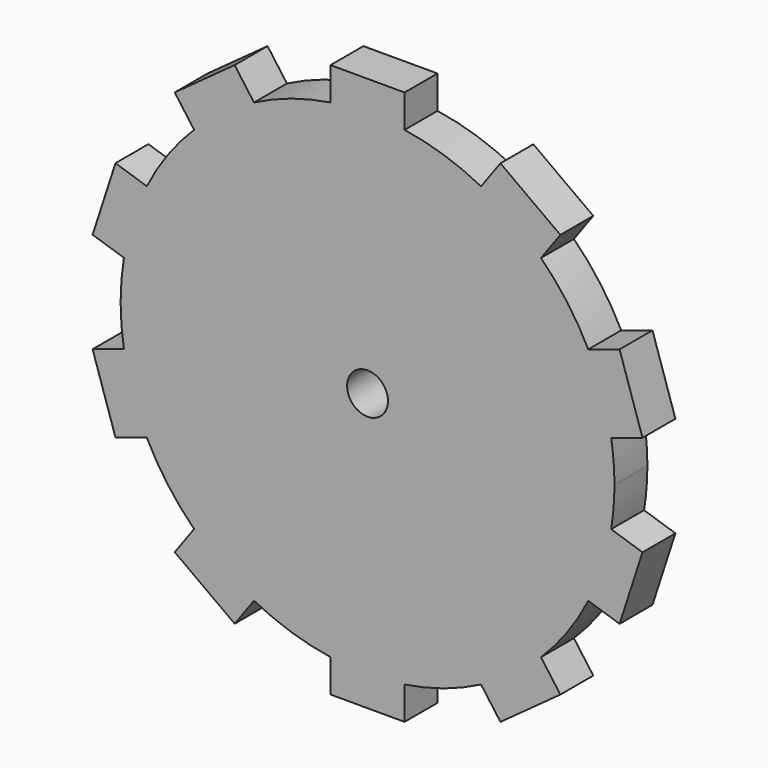
from build123d import *

# Parameters (mm, degrees)
F1_DEPTH = 12.7
F2_R     = 6.3065615495
F3_DEPTH = 12.7


with BuildPart() as f1:
    # F0 (on Front) → F1 (new body)
    with BuildSketch(Plane.XZ):
        with BuildLine():
            ThreePointArc((75.1826392346, -12.4101070791), (75.9452339179, -6.2258690285), (76.2, 0))
            ThreePointArc((76.2, 0), (75.9452339179, 6.2258690285), (75.1826392346, 12.4101070791))
            ThreePointArc((75.1826392346, 12.4101070791), (72.4705065417, 23.5470949714), (68.1185107432, 34.1512590416))
            ThreePointArc((68.1185107432, 34.1512590416), (61.6470949714, 44.7892362247), (53.5295549023, 54.2312340995))
            ThreePointArc((53.5295549023, 54.2312340995), (44.7892362247, 61.6470949714), (35.0354264109, 67.6680049669))
            ThreePointArc((35.0354264109, 67.6680049669), (23.5470949714, 72.4705065417), (11.43, 75.3378729458))
            Line((11.43, 75.3378729458), (-11.43, 75.3378729458))
            ThreePointArc((-11.43, 75.3378729458), (-23.5470949714, 72.4705065417), (-35.0354264109, 67.6680049669))
            ThreePointArc((-35.0354264109, 67.6680049669), (-44.7892362247, 61.6470949714), (-53.5295549023, 54.2312340995))
            ThreePointArc((-53.5295549023, 54.2312340995), (-61.6470949714, 44.7892362247), (-68.1185107432, 34.1512590416))
            ThreePointArc((-68.1185107432, 34.1512590416), (-72.4705065417, 23.5470949714), (-75.1826392346, 12.4101070791))
            ThreePointArc((-75.1826392346, 12.4101070791), (-76.2, 0), (-75.1826392346, -12.4101070791))
            ThreePointArc((-75.1826392346, -12.4101070791), (-72.4705065417, -23.5470949714), (-68.1185107432, -34.1512590416))
            ThreePointArc((-68.1185107432, -34.1512590416), (-61.6470949714, -44.7892362247), (-53.5295549023, -54.2312340995))
            ThreePointArc((-53.5295549023, -54.2312340995), (-44.7892362247, -61.6470949714), (-35.0354264109, -67.6680049669))
            ThreePointArc((-35.0354264109, -67.6680049669), (-23.5470949714, -72.4705065417), (-11.43, -75.3378729458))
            ThreePointArc((-11.43, -75.3378729458), (0, -76.2), (11.43, -75.3378729458))
            ThreePointArc((11.43, -75.3378729458), (23.5470949714, -72.4705065417), (35.0354264109, -67.6680049669))
            ThreePointArc((35.0354264109, -67.6680049669), (44.7892362247, -61.6470949714), (53.5295549023, -54.2312340995))
            ThreePointArc((53.5295549023, -54.2312340995), (61.6470949714, -44.7892362247), (68.1185107432, -34.1512590416))
            ThreePointArc((68.1185107432, -34.1512590416), (72.4705065417, -23.5470949714), (75.1826392346, -12.4101070791))
        make_face()
        with BuildLine():
            ThreePointArc((68.1185107432, 34.1512590416), (72.4705065417, 23.5470949714), (75.1826392346, 12.4101070791))
            Line((75.1826392346, 12.4101070791), (84.8453734402, 15.5497197419))
            Line((84.8453734402, 15.5497197419), (77.7812449488, 37.2908717044))
            Line((77.7812449488, 37.2908717044), (68.1185107432, 34.1512590416))
        make_face()
        with BuildLine():
            Line((84.8453734402, -15.5497197419), (75.1826392346, -12.4101070791))
            ThreePointArc((75.1826392346, -12.4101070791), (72.4705065417, -23.5470949714), (68.1185107432, -34.1512590416))
            Line((68.1185107432, -34.1512590416), (77.7812449488, -37.2908717044))
            Line((77.7812449488, -37.2908717044), (84.8453734402, -15.5497197419))
        make_face()
        with BuildLine():
            ThreePointArc((35.0354264109, 67.6680049669), (44.7892362247, 61.6470949714), (53.5295549023, 54.2312340995))
            Line((53.5295549023, 54.2312340995), (59.5014530656, 62.4508467624))
            Line((59.5014530656, 62.4508467624), (41.0073245742, 75.8876176298))
            Line((41.0073245742, 75.8876176298), (35.0354264109, 67.6680049669))
        make_face()
        with BuildLine():
            Line((59.5014530656, -62.4508467624), (53.5295549023, -54.2312340995))
            ThreePointArc((53.5295549023, -54.2312340995), (44.7892362247, -61.6470949714), (35.0354264109, -67.6680049669))
            Line((35.0354264109, -67.6680049669), (41.0073245742, -75.8876176298))
            Line((41.0073245742, -75.8876176298), (59.5014530656, -62.4508467624))
        make_face()
        with BuildLine():
            Line((-11.43, 75.3378729458), (11.43, 75.3378729458))
            ThreePointArc((11.43, 75.3378729458), (0, 76.2), (-11.43, 75.3378729458))
        make_face()
        with BuildLine():
            ThreePointArc((-11.43, 75.3378729458), (0, 76.2), (11.43, 75.3378729458))
            Line((11.43, 75.3378729458), (11.43, 85.4978729458))
            Line((11.43, 85.4978729458), (-11.43, 85.4978729458))
            Line((-11.43, 85.4978729458), (-11.43, 75.3378729458))
        make_face()
        with BuildLine():
            Line((11.43, -85.4978729458), (11.43, -75.3378729458))
            ThreePointArc((11.43, -75.3378729458), (0, -76.2), (-11.43, -75.3378729458))
            Line((-11.43, -75.3378729458), (-11.43, -85.4978729458))
            Line((-11.43, -85.4978729458), (11.43, -85.4978729458))
        make_face()
        with BuildLine():
            ThreePointArc((-53.5295549023, 54.2312340995), (-44.7892362247, 61.6470949714), (-35.0354264109, 67.6680049669))
            Line((-35.0354264109, 67.6680049669), (-41.0073245742, 75.8876176298))
            Line((-41.0073245742, 75.8876176298), (-59.5014530656, 62.4508467624))
            Line((-59.5014530656, 62.4508467624), (-53.5295549023, 54.2312340995))
        make_face()
        with BuildLine():
            Line((-41.0073245742, -75.8876176298), (-35.0354264109, -67.6680049669))
            ThreePointArc((-35.0354264109, -67.6680049669), (-44.7892362247, -61.6470949714), (-53.5295549023, -54.2312340995))
            Line((-53.5295549023, -54.2312340995), (-59.5014530656, -62.4508467624))
            Line((-59.5014530656, -62.4508467624), (-41.0073245742, -75.8876176298))
        make_face()
        with BuildLine():
            ThreePointArc((-75.1826392346, 12.4101070791), (-72.4705065417, 23.5470949714), (-68.1185107432, 34.1512590416))
            Line((-68.1185107432, 34.1512590416), (-77.7812449488, 37.2908717044))
            Line((-77.7812449488, 37.2908717044), (-84.8453734402, 15.5497197419))
            Line((-84.8453734402, 15.5497197419), (-75.1826392346, 12.4101070791))
        make_face()
        with BuildLine():
            Line((-77.7812449488, -37.2908717044), (-68.1185107432, -34.1512590416))
            ThreePointArc((-68.1185107432, -34.1512590416), (-72.4705065417, -23.5470949714), (-75.1826392346, -12.4101070791))
            Line((-75.1826392346, -12.4101070791), (-84.8453734402, -15.5497197419))
            Line((-84.8453734402, -15.5497197419), (-77.7812449488, -37.2908717044))
        make_face()
    extrude(amount=F1_DEPTH)

    # F2 (on face) → F3 (cut)
    with BuildSketch(Plane.XZ.offset(12.7)):
        Circle(F2_R)
    extrude(amount=-F3_DEPTH, mode=Mode.SUBTRACT)


solid = f1.part
